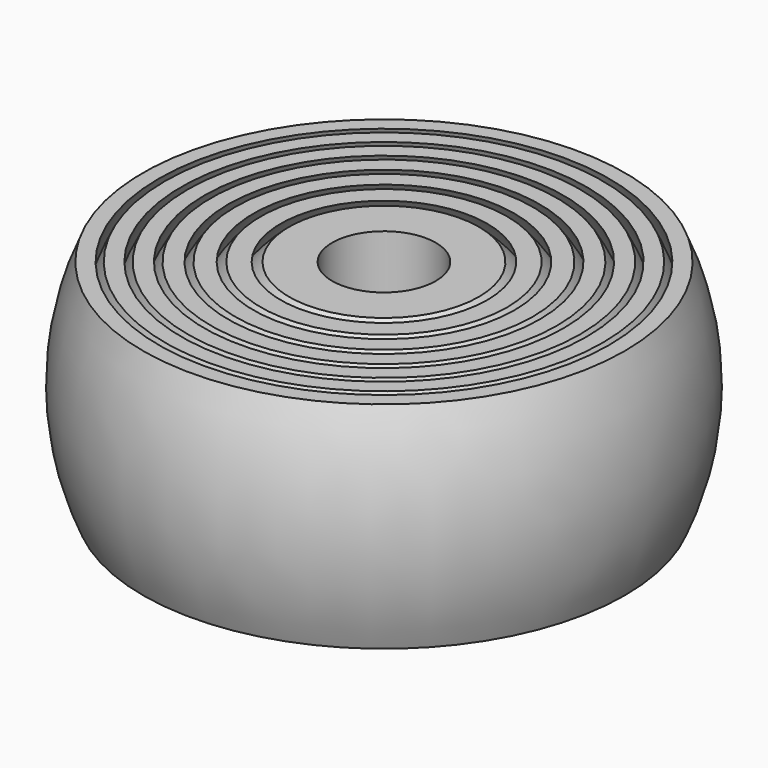
from build123d import *


with BuildPart() as f1:
    # F0 (on Front) → F1 (revolve)
    with BuildSketch(Plane.XZ):
        with BuildLine():
            Line((6.614378, 7.5), (3.614378, 7.5))
            Line((3.614378, 7.5), (3.614378, -7.5))
            Line((3.614378, -7.5), (6.614378, -7.5))
            ThreePointArc((6.614378, -7.5), (10, 0), (6.614378, 7.5))
        make_face()
        with BuildLine():
            Line((8.585453, 7.5), (7.204859, 7.5))
            ThreePointArc((7.204859, 7.5), (10.4, 0), (7.204859, -7.5))
            Line((7.204859, -7.5), (8.585453, -7.5))
            ThreePointArc((8.585453, -7.5), (11.4, 0), (8.585453, 7.5))
        make_face()
        with BuildLine():
            Line((10.37256, 7.5), (9.109885, 7.5))
            ThreePointArc((9.109885, 7.5), (11.8, 0), (9.109885, -7.5))
            Line((9.109885, -7.5), (10.37256, -7.5))
            ThreePointArc((10.37256, -7.5), (12.8, 0), (10.37256, 7.5))
        make_face()
        with BuildLine():
            Line((12.057778, 7.5), (10.86232, 7.5))
            ThreePointArc((10.86232, 7.5), (13.2, 0), (10.86232, -7.5))
            Line((10.86232, -7.5), (12.057778, -7.5))
            ThreePointArc((12.057778, -7.5), (14.2, 0), (12.057778, 7.5))
        make_face()
        with BuildLine():
            Line((13.678816, 7.5), (12.526372, 7.5))
            ThreePointArc((12.526372, 7.5), (14.6, 0), (12.526372, -7.5))
            Line((12.526372, -7.5), (13.678816, -7.5))
            ThreePointArc((13.678816, -7.5), (15.6, 0), (13.678816, 7.5))
        make_face()
        with BuildLine():
            Line((15.256146, 7.5), (14.133294, 7.5))
            ThreePointArc((14.133294, 7.5), (16, 0), (14.133294, -7.5))
            Line((14.133294, -7.5), (15.256146, -7.5))
            ThreePointArc((15.256146, -7.5), (17, 0), (15.256146, 7.5))
        make_face()
        with BuildLine():
            Line((16.802083, 7.5), (15.700637, 7.5))
            ThreePointArc((15.700637, 7.5), (17.4, 0), (15.700637, -7.5))
            Line((15.700637, -7.5), (16.802083, -7.5))
            ThreePointArc((16.802083, -7.5), (18.4, 0), (16.802083, 7.5))
        make_face()
    revolve(axis=Axis((0, 0, 0), (0, 0, -1)))


solid = f1.part
